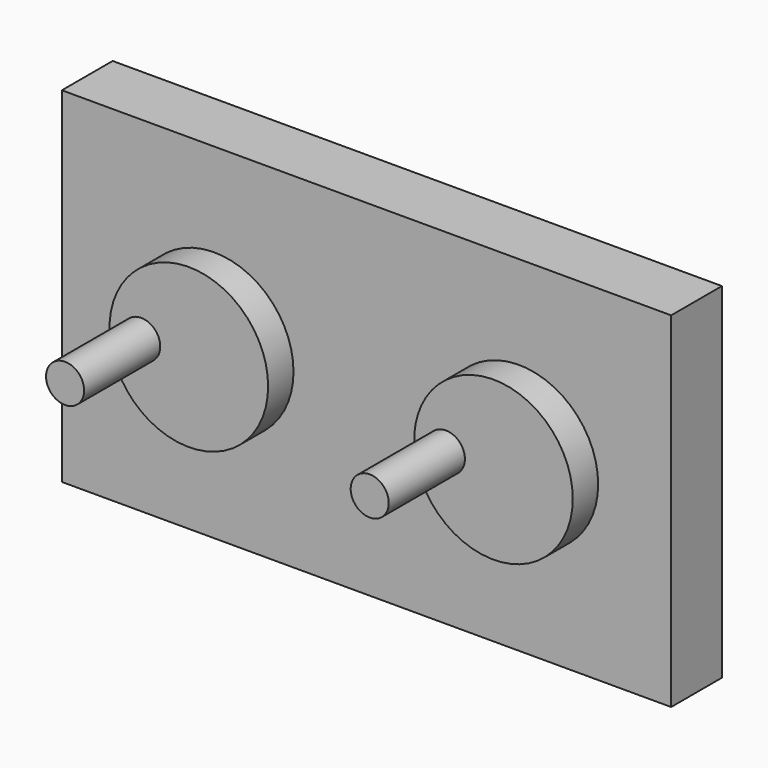
from build123d import *

# Parameters (mm, degrees)
F0_W      = 96.024364233
F0_H      = 54.3456934392
F1_DEPTH  = 10
F2_R      = 7.5
F3_DEPTH  = 10
F4_R      = 12.5
F4_R_2    = 7.5
F5_DEPTH  = 5
F6_R      = 4
F7_DEPTH  = 10
F8_R      = 4
F9_DEPTH  = 10
F10_R     = 3
F11_DEPTH = 15


with BuildPart() as f1:
    # F0 (on Front) → F1 (new body)
    with BuildSketch(Plane.XZ):
        Rectangle(F0_W, F0_H)
    extrude(amount=F1_DEPTH)

    # F2 (on face) → F3 (cut, through all)
    with BuildSketch(Plane.XZ.offset(10)):
        with Locations((-24.0060910583, 0)):
            Circle(F2_R)
        with Locations((24.0060910583, 0)):
            Circle(F2_R)
    extrude(amount=-F3_DEPTH, mode=Mode.SUBTRACT)


with BuildPart() as f5:
    # F4 (on face) → F5 (new body)
    with BuildSketch(Plane.XZ.offset(10)):
        with Locations((-24.0060910583, 0)):
            Circle(F4_R)
        with Locations((-24.0060910583, 0)):
            Circle(F4_R_2, mode=Mode.SUBTRACT)
        with Locations((-24.0060910583, 0)):
            Circle(F4_R_2)
    extrude(amount=F5_DEPTH)

    # F6 (on face) → F7, piece 2 (join, through all)
    with BuildSketch(Plane(origin=(0, -10, 0), x_dir=(-1, 0, 0), z_dir=(0, 1, 0))):
        with Locations((24.0060910583, 0)):
            Circle(F6_R)
    extrude(amount=F7_DEPTH)

    # F10 (on face) → F11, piece 2 (join)
    with BuildSketch(Plane.XZ.offset(15)):
        with Locations((-31.5060910583, 0)):
            Circle(F10_R)
    extrude(amount=F11_DEPTH)


with BuildPart() as f5b:
    # F4 (on face) → F5, piece 2 (new body)
    with BuildSketch(Plane.XZ.offset(10)):
        with Locations((24.0060910583, 0)):
            Circle(F4_R)
        with Locations((24.0060910583, 0)):
            Circle(F4_R_2, mode=Mode.SUBTRACT)
        with Locations((24.0060910583, 0)):
            Circle(F4_R_2)
    extrude(amount=F5_DEPTH)

    # F6 (on face) → F7 (join, through all)
    with BuildSketch(Plane(origin=(0, -10, 0), x_dir=(-1, 0, 0), z_dir=(0, 1, 0))):
        with Locations((-24.0060910583, 0)):
            Circle(F6_R)
    extrude(amount=F7_DEPTH)

    # F10 (on face) → F11 (join)
    with BuildSketch(Plane.XZ.offset(15)):
        with Locations((16.5060910583, 0)):
            Circle(F10_R)
    extrude(amount=F11_DEPTH)


with BuildPart() as f9:
    # F8 (on face) → F9 (new body)
    with BuildSketch(Plane(origin=(0, 0, 0), x_dir=(-1, 0, 0), z_dir=(0, 1, 0))):
        Polygon((-8.0060910583, -6.627416998), (-8.0060910583, 6.627416998), (-17.3786740603, 16), (-30.6335080562, 16), (-40.0060910583, 6.627416998), (-40.0060910583, -6.627416998), (-30.6335080562, -16), (-17.3786740603, -16), align=None)
        with Locations((-24.0060910583, 0)):
            Circle(F8_R, mode=Mode.SUBTRACT)
        with Locations((-24.0060910583, 0)):
            Circle(F8_R)
    extrude(amount=F9_DEPTH)


with BuildPart() as f9b:
    # F8 (on face) → F9, piece 2 (new body)
    with BuildSketch(Plane(origin=(0, 0, 0), x_dir=(-1, 0, 0), z_dir=(0, 1, 0))):
        Polygon((27.3197995572, 8), (20.6923825593, 8), (16.0060910583, 3.313708499), (16.0060910583, -3.313708499), (20.6923825593, -8), (27.3197995572, -8), (32.0060910583, -3.313708499), (32.0060910583, 3.313708499), align=None)
    extrude(amount=F9_DEPTH)


solid = Compound([f1.part, f5.part, f5b.part, f9.part, f9b.part])
